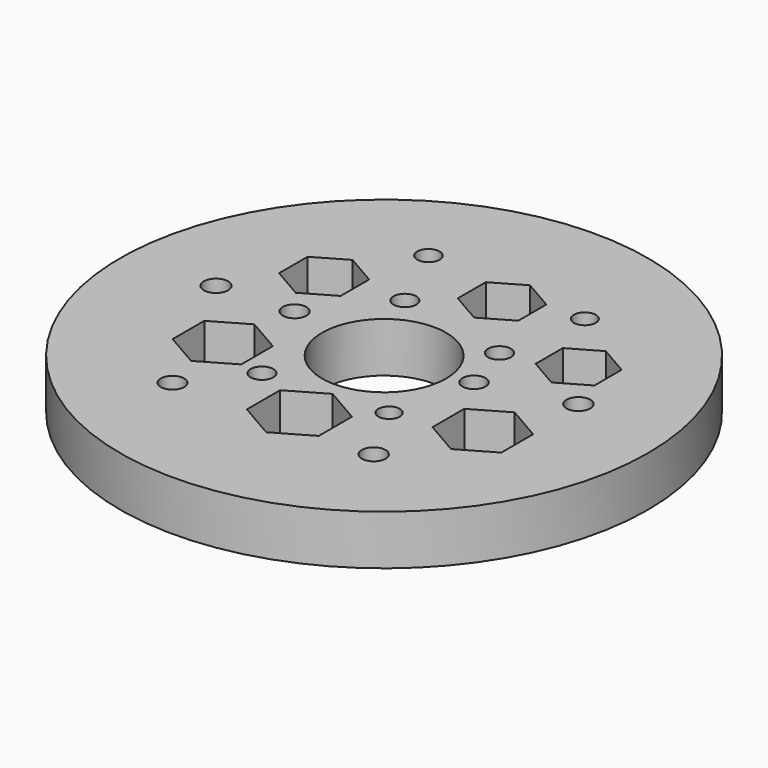
from build123d import *

# Parameters (mm, degrees)
F0_R     = 2.6469034354
F0_R_2   = 2.0745903339
F0_R_3   = 0.1174065855
F0_R_4   = 0.1136931778
F0_R_5   = 0.1192198614
F0_R_6   = 0.1067592126
F0_R_7   = 0.1222189054
F0_R_8   = 0.1186873997
F0_R_9   = 0.1140464443
F0_R_10  = 0.1120298708
F0_R_11  = 0.6223
F0_R_12  = 0.1157965991
F0_R_13  = 0.1149831329
F0_R_14  = 0.1193553309
F0_R_15  = 0.1098925771
F1_DEPTH = 0.5


with BuildPart() as f1:
    # F0 (on Top) → F1 (new body)
    with BuildSketch(Plane.XY):
        Circle(F0_R)
        Circle(F0_R_2, mode=Mode.SUBTRACT)
        Circle(F0_R_2)
        with Locations((-1.0062578367, -1.3941284269)):
            Circle(F0_R_3, mode=Mode.SUBTRACT)
        with Locations((-0.5608999636, -0.8296631859)):
            Circle(F0_R_4, mode=Mode.SUBTRACT)
        Polygon((-1.1245322547, -0.2199865095), (-0.7809179369, -0.4183723283), (-0.7809179369, -0.8151439661), (-1.1245322547, -1.0135297849), (-1.4681465725, -0.8151439661), (-1.4681465725, -0.4183723283), align=None, mode=Mode.SUBTRACT)
        with Locations((0.9823172586, -1.3578784419)):
            Circle(F0_R_5, mode=Mode.SUBTRACT)
        Polygon((0.0905057661, -0.7585551647), (0.4507631238, -0.9665498472), (0.4507631238, -1.3825392121), (0.0905057661, -1.5905338946), (-0.2697515917, -1.3825392121), (-0.2697515917, -0.9665498472), align=None, mode=Mode.SUBTRACT)
        with Locations((0.6353522767, -0.73127012)):
            Circle(F0_R_6, mode=Mode.SUBTRACT)
        Polygon((1.3988593437, -0.112422593), (1.7440281808, -0.311705914), (1.7440281808, -0.7102725561), (1.3988593437, -0.9095558771), (1.0536905066, -0.7102725561), (1.0536905066, -0.311705914), align=None, mode=Mode.SUBTRACT)
        with Locations((-1.7675092677, 0.1024813828)):
            Circle(F0_R_7, mode=Mode.SUBTRACT)
        with Locations((-1.0166150751, 0.149088577)):
            Circle(F0_R_8, mode=Mode.SUBTRACT)
        Polygon((-1.2067056959, 1.1133981843), (-0.8979276754, 0.935125111), (-0.8979276754, 0.5785789645), (-1.2067056959, 0.4003058912), (-1.5154837165, 0.5785789645), (-1.5154837165, 0.935125111), align=None, mode=Mode.SUBTRACT)
        with Locations((-0.4573283368, 0.8326612879)):
            Circle(F0_R_9, mode=Mode.SUBTRACT)
        with Locations((-0.7887575193, 1.5421268763)):
            Circle(F0_R_10, mode=Mode.SUBTRACT)
        Circle(F0_R_11, mode=Mode.SUBTRACT)
        with Locations((0.8321383502, 0.0869456344)):
            Circle(F0_R_12, mode=Mode.SUBTRACT)
        with Locations((0.6767809391, 0.599625113)):
            Circle(F0_R_13, mode=Mode.SUBTRACT)
        Polygon((0.1470820135, 1.6455478347), (0.4507631238, 1.4702174639), (0.4507631238, 1.1195567223), (0.1470820135, 0.9442263515), (-0.1565990969, 1.1195567223), (-0.1565990969, 1.4702174639), align=None, mode=Mode.SUBTRACT)
        Polygon((1.3077456061, 1.1441481716), (1.6023848439, 0.9740381284), (1.6023848439, 0.6338180419), (1.3077456061, 0.4637079986), (1.0131063683, 0.6338180419), (1.0131063683, 0.9740381284), align=None, mode=Mode.SUBTRACT)
        with Locations((1.7014705809, 0.3093554697)):
            Circle(F0_R_14, mode=Mode.SUBTRACT)
        with Locations((0.8373169112, 1.4696266735)):
            Circle(F0_R_15, mode=Mode.SUBTRACT)
    extrude(amount=F1_DEPTH)


solid = f1.part
